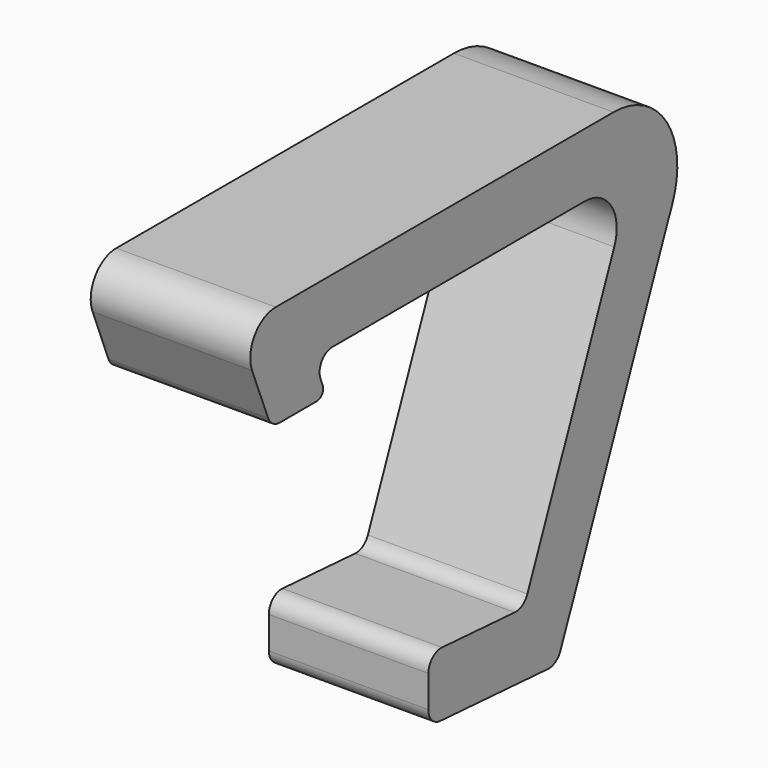
from build123d import *

# Parameters (mm, degrees)
F1_DEPTH = 20


with BuildPart() as f1:
    # F0 (on Right) → F1 (new body)
    with BuildSketch(Plane.YZ):
        with BuildLine():
            ThreePointArc((-37.057428, -2.742781), (-36.856609, -0.878742), (-35.200475, 0))
            Line((-35.200475, 0), (4.353885, 0))
            ThreePointArc((4.353885, 0), (8.512695, -2.224339), (8.971265, -6.918281))
            Line((8.971265, -6.918281), (-4.637947, -39.676195))
            ThreePointArc((-4.637947, -39.676195), (-5.430734, -40.608511), (-6.618232, -40.904433))
            Line((-6.618232, -40.904433), (-18.021215, -40.142539))
            ThreePointArc((-18.021215, -40.142539), (-19.520809, -40.677496), (-20.154549, -42.13809))
            Line((-20.154549, -42.13809), (-20.154549, -46.147009))
            ThreePointArc((-20.154549, -46.147009), (-19.615142, -47.513269), (-18.287882, -48.142559))
            Line((-18.287882, -48.142559), (-1.430313, -49.268903))
            ThreePointArc((-1.430313, -49.268903), (-0.242815, -48.97298), (0.549972, -48.040665))
            Line((0.549972, -48.040665), (18.083584, -5.836563))
            ThreePointArc((18.083584, -5.836563), (17.166446, 3.551323), (8.848825, 8))
            Line((8.848825, 8), (-44.062673, 8))
            ThreePointArc((-44.062673, 8), (-47.374941, 6.242515), (-47.776579, 2.514437))
            Line((-47.776579, 2.514437), (-45.273692, -3.742781))
            ThreePointArc((-45.273692, -3.742781), (-44.537996, -4.656134), (-43.416738, -5))
            Line((-43.416738, -5), (-37.631574, -5))
            ThreePointArc((-37.631574, -5), (-36.803506, -4.560629), (-36.703097, -3.628609))
            Line((-36.703097, -3.628609), (-37.057428, -2.742781))
        make_face()
    extrude(amount=F1_DEPTH)


solid = f1.part
